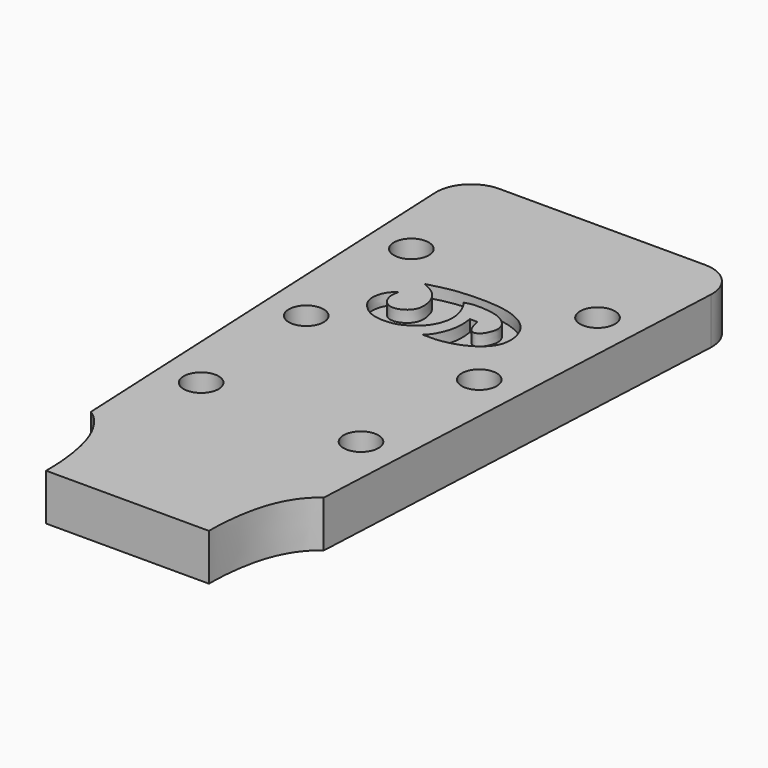
from build123d import *

# Parameters (mm, degrees)
F1_R     = 4.7625
F3_DEPTH = 12.7
F4_DEPTH = 3.175


with BuildPart() as f3:
    # F1 (on Top) → F3 (new body)
    with BuildSketch(Plane.XY):
        with BuildLine():
            Line((28.1154855929, 161.925), (0, 161.925))
            Line((0, 161.925), (-28.1154855929, 161.925))
            ThreePointArc((-28.1154855929, 161.925), (-35.0074025997, 158.9747323118), (-37.6299232694, 151.9515574743))
            Line((-37.6299232694, 151.9515574743), (-31.75, 27.1994202793))
            add(Edge.make_bspline(
                [(-31.75, 27.1994202793), (-29.6761900194, 25.9720341917), (-23.6563029983, 19.0419580121), (-22.1744223376, 6.1323032921), (-22.225, 0)],
                knots=[0, 0, 0, 0, 0.4224327259, 1, 1, 1, 1], degree=3))
            Line((-22.225, 0), (0, 0))
            Line((0, 0), (22.225, 0))
            add(Edge.make_bspline(
                [(31.75, 27.1994202793), (29.6761900194, 25.9720341917), (23.6563029983, 19.0419580121), (22.1744223376, 6.1323032921), (22.225, 0)],
                knots=[0, 0, 0, 0, 0.4224327259, 1, 1, 1, 1], degree=3))
            Line((31.75, 27.1994202793), (37.6299232694, 151.9515574743))
            ThreePointArc((37.6299232694, 151.9515574743), (35.0074025997, 158.9747323118), (28.1154855929, 161.925))
        make_face()
        with Locations((-21.8123494917, 52.3875)):
            Circle(F1_R, mode=Mode.SUBTRACT)
        with Locations((21.8123494917, 52.3875)):
            Circle(F1_R, mode=Mode.SUBTRACT)
        with Locations((-23.608110924, 90.4875)):
            Circle(F1_R, mode=Mode.SUBTRACT)
        with Locations((-25.4038723562, 128.5875)):
            Circle(F1_R, mode=Mode.SUBTRACT)
        with Locations((23.608110924, 90.4875)):
            Circle(F1_R, mode=Mode.SUBTRACT)
        with Locations((25.4038723562, 128.5875)):
            Circle(F1_R, mode=Mode.SUBTRACT)
    extrude(amount=-F3_DEPTH)

    # F0 (on Top) → F4 (cut)
    with BuildSketch(Plane.XY):
        with BuildLine():
            add(Edge.make_bspline(
                [(1.0593833724, 99.1475137805), (2.5559341701, 99.1145666252), (5.8379542757, 99.0421921612), (11.5343712807, 100.5813709834), (15.7716995925, 103.584971967), (17.5521968656, 106.9939829863), (17.5084273814, 110.7653078529), (15.8682117091, 114.7892505096), (12.585173716, 117.5502629205), (7.8769249094, 119.299896729), (1.9343205728, 119.8076368126), (-3.1781046795, 119.6289589903), (-7.2619783072, 119.2345211568), (-10.8743755981, 118.29672729), (-13.0281566642, 117.70711966)],
                knots=[0.0004300558, 0.0004300558, 0.0004300558, 0.0004300558, 0.0832485179, 0.1761798174, 0.2624312592, 0.3351673684, 0.4080412094, 0.4864562522, 0.5642420083, 0.6494187031, 0.7433308204, 0.8294577615, 0.9060544977, 1, 1, 1, 1], degree=3))
            add(Edge.make_bspline(
                [(-13.0281566642, 117.70711966), (-11.927489258, 117.185339095), (-9.7312384706, 116.1450044618), (-7.4073677, 113.3999325234), (-6.6002833283, 109.3491651189), (-7.5018989821, 106.8279299269), (-9.5918661876, 105.167830918), (-12.1303468316, 104.7517487571), (-14.0566056284, 105.7762961611), (-15.2008741177, 107.8748622038), (-15.3772398383, 109.6296407131), (-15.1753576467, 110.7727779955), (-15.0701632682, 111.3410160134)],
                knots=[0, 0, 0, 0, 0.1180437472, 0.234615124, 0.3583703395, 0.4574269559, 0.5563949363, 0.6533909552, 0.7422580506, 0.83640322, 0.9185230919, 1, 1, 1, 1], degree=3))
            add(Edge.make_bspline(
                [(-15.0701632682, 111.3410160134), (-15.505719215, 110.9930009338), (-16.4636093634, 110.2276335784), (-17.7779614617, 108.041163358), (-18.0521432424, 104.9801450073), (-16.8581385646, 102.5165893088), (-14.4508518802, 100.2115102432), (-11.6743067267, 99.088851409), (-7.9269606854, 99.0020263431), (-4.8626470916, 99.7850461575), (-1.6631103775, 102.0970676799), (0.1038776901, 104.1235433713), (1.5482480033, 107.6803982961), (1.3382113539, 111.4460753916), (-0.073228728, 114.7124411547), (-0.9254044237, 115.7633883721), (-1.2731438341, 116.1675539884)],
                knots=[0, 0, 0, 0, 0.0545505376, 0.1199489216, 0.1911609303, 0.2588311862, 0.3331853139, 0.4046700879, 0.4835825095, 0.5577764576, 0.638542136, 0.7067672222, 0.7860370993, 0.8669772896, 0.9443686304, 1, 1, 1, 1], degree=3))
            add(Edge.make_bspline(
                [(-1.2731438341, 116.1675539884), (-0.5108734905, 116.3779792012), (1.0158844838, 116.9164864147), (5.4226997488, 116.6396355542), (8.8958561222, 115.8524957555), (11.692580742, 113.6007452528), (12.4501015764, 110.8161226795), (11.1978999147, 107.9589067376), (10.2801217106, 107.0850714659), (9.1426788782, 106.4583804188), (7.9829219247, 107.2388785974), (7.5129716372, 108.1094751583), (6.8836495416, 109.6054642785), (6.7264512123, 110.7557464117), (6.685124173, 111.0643363623)],
                knots=[0, 0, 0, 0, 0.0880067759, 0.2065209573, 0.3160183915, 0.4204545842, 0.5148541767, 0.6128089511, 0.6773707634, 0.738010157, 0.8009672218, 0.8581320289, 0.9319910625, 1, 1, 1, 1], degree=3))
            add(Edge.make_bspline(
                [(6.685124173, 111.0643363623), (5.986354531, 111.0643363623), (5.2875848889, 111.0643363623), (4.5888152469, 111.0643363623)],
                knots=[0, 0, 0, 0, 2.0963089261, 2.0963089261, 2.0963089261, 2.0963089261], degree=3))
            add(Edge.make_bspline(
                [(4.5888152469, 111.0643363623), (4.6817050502, 110.3976681204), (4.9058001684, 108.8184272042), (4.7798039367, 104.9617644403), (2.7482514003, 100.3912778472), (1.4650850671, 99.5107345805), (1.0360737525, 99.1480269117)],
                knots=[0, 0, 0, 0, 0.2078714315, 0.4882854459, 0.8016145986, 1, 1, 1, 1], degree=3))
            add(Edge.make_bspline(
                [(1.0360737525, 99.1480269117), (1.0438422832, 99.1478559222), (1.0516121532, 99.147684867), (1.0593833724, 99.1475137805)],
                knots=[0, 0, 0, 0, 0.0004300558, 0.0004300558, 0.0004300558, 0.0004300558], degree=3))
        make_face()
    extrude(amount=-F4_DEPTH, mode=Mode.SUBTRACT)


solid = f3.part
